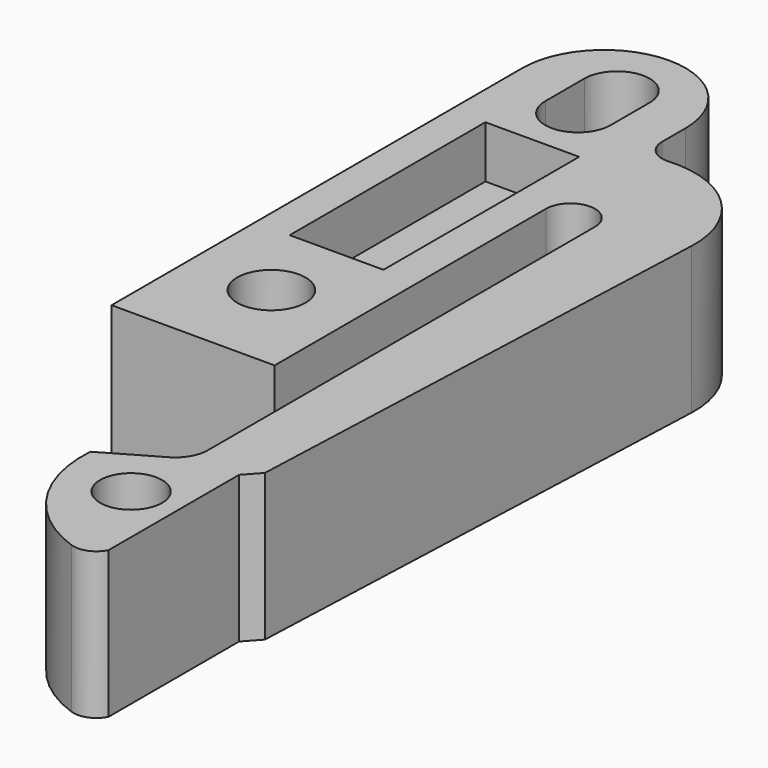
from build123d import *

# Parameters (mm, degrees)
SKETCH_R     = 2.1
PAD_DEPTH    = 4.5
SKETCH001_R  = 1.9
SKETCH001_W  = 5.75
SKETCH001_H  = 15
POCKET_DEPTH = 3.2


with BuildPart() as part:
    # Sketch → Pad (new body, symmetric)
    with BuildSketch(Plane.XY):
        with BuildLine():
            Line((-5, -6), (5, -6))
            Line((5, 14.803576), (5, -6))
            ThreePointArc((8, 14.803576), (6.5, 16.303576), (5, 14.803576))
            Line((8, -14.862693), (8, 14.803576))
            ThreePointArc((7, -16.594744), (7.732051, -15.862693), (8, -14.862693))
            Line((7, -16.594744), (3.7, -18.5))
            ThreePointArc((3.7, -18.5), (4.993034, -23.462837), (9.034008, -26.620718))
            ThreePointArc((9.034008, -26.620718), (10.027512, -26.597535), (10.758643, -25.924455))
            Line((10.758643, -15.924455), (10.758643, -25.924455))
            Line((11.6, -15), (10.758643, -15.924455))
            Line((12.854013, 16.145071), (11.6, -15))
            ThreePointArc((12.854013, 16.145071), (11.054451, 20.645496), (6.5, 22.303576))
            ThreePointArc((5, 23.7), (5.446061, 22.675305), (6.5, 22.303576))
            Line((5, 25.5), (5, 23.7))
            ThreePointArc((5, 25.5), (0, 30.5), (-5, 25.5))
            Line((-5, -6), (-5, 25.5))
        make_face()
        Circle(SKETCH_R, mode=Mode.SUBTRACT)
        with BuildLine():
            ThreePointArc((-2, 23.5), (0, 21.5), (2, 23.5))
            Line((2, 23.5), (2, 26.5))
            ThreePointArc((2, 26.5), (0, 28.5), (-2, 26.5))
            Line((-2, 23.5), (-2, 26.5))
        make_face(mode=Mode.SUBTRACT)
    extrude(amount=PAD_DEPTH, both=True)

    # Sketch001 (on Face23 of Pad) → Pocket (cut)
    with BuildSketch(Plane.XY.offset(4.5)):
        with Locations((7.8, -20.5)):
            Circle(SKETCH001_R)
        with Locations((0, 12.5)):
            Rectangle(SKETCH001_W, SKETCH001_H)
    pocket = extrude(amount=-POCKET_DEPTH, mode=Mode.SUBTRACT)

    # Mirrored: Pocket across XY
    add(pocket.mirror(Plane.XY), mode=Mode.SUBTRACT)


solid = part.part
